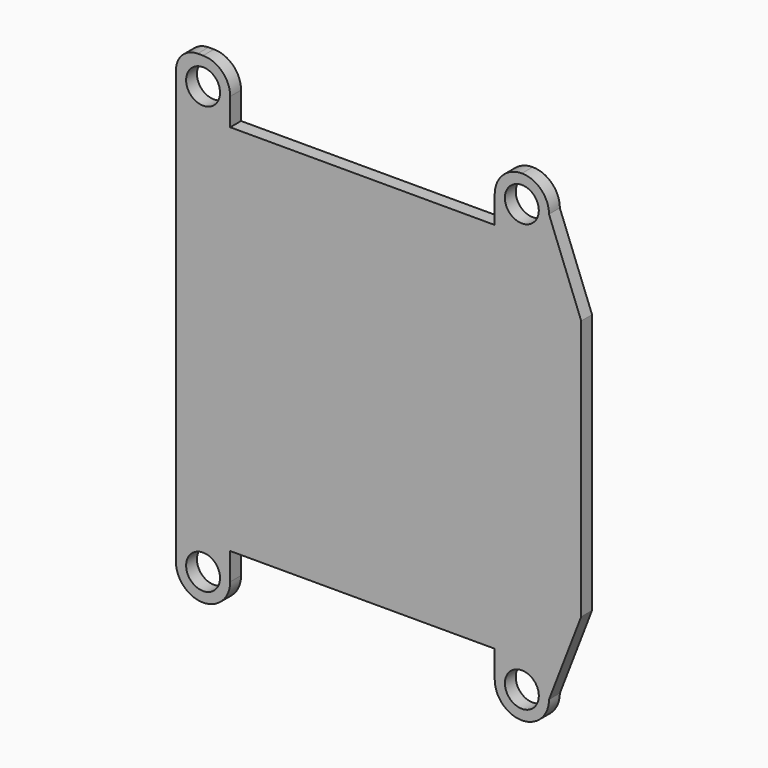
from build123d import *

# Parameters (mm, degrees)
F0_R     = 15.875
F1_DEPTH = 12.7


with BuildPart() as f1:
    # F0 (on Front) → F1 (new body)
    with BuildSketch(Plane.XZ):
        with BuildLine():
            Line((6.68072, 451.008485), (1.60072, 451.008485))
            ThreePointArc((1.60072, 451.008485), (-12.76769, 445.056895), (-18.71928, 430.688485))
            Line((-18.71928, 430.688485), (-18.71928, 25.558485))
            ThreePointArc((-18.71928, 25.558485), (-11.279792, 7.597973), (6.68072, 0.158485))
            ThreePointArc((6.68072, 0.158485), (24.641232, 7.597973), (32.08072, 25.558485))
            Line((32.08072, 25.558485), (32.08072, 50.958485))
            Line((32.08072, 50.958485), (279.73072, 50.958485))
            Line((279.73072, 50.958485), (279.73072, 25.558485))
            ThreePointArc((279.73072, 25.558485), (287.170208, 7.597973), (305.13072, 0.158485))
            ThreePointArc((305.13072, 0.158485), (323.091232, 7.597973), (330.53072, 25.558485))
            Line((330.53072, 25.558485), (330.53072, 425.608485))
            ThreePointArc((330.53072, 425.608485), (323.091232, 443.568997), (305.13072, 451.008485))
            ThreePointArc((305.13072, 451.008485), (287.170208, 443.568997), (279.73072, 425.608485))
            Line((279.73072, 425.608485), (279.73072, 400.208485))
            Line((279.73072, 400.208485), (32.08072, 400.208485))
            Line((32.08072, 400.208485), (32.08072, 425.608485))
            ThreePointArc((32.08072, 425.608485), (24.641232, 443.568997), (6.68072, 451.008485))
        make_face()
        with Locations((6.68072, 25.558485)):
            Circle(F0_R, mode=Mode.SUBTRACT)
        with Locations((305.13072, 25.558485)):
            Circle(F0_R, mode=Mode.SUBTRACT)
        with Locations((6.68072, 425.608485)):
            Circle(F0_R, mode=Mode.SUBTRACT)
        with Locations((305.13072, 425.608485)):
            Circle(F0_R, mode=Mode.SUBTRACT)
        Polygon((360.69322, 347.454131), (330.53072, 425.608485), (330.53072, 25.558485), (360.69322, 103.71284), align=None)
    extrude(amount=F1_DEPTH)


solid = f1.part
